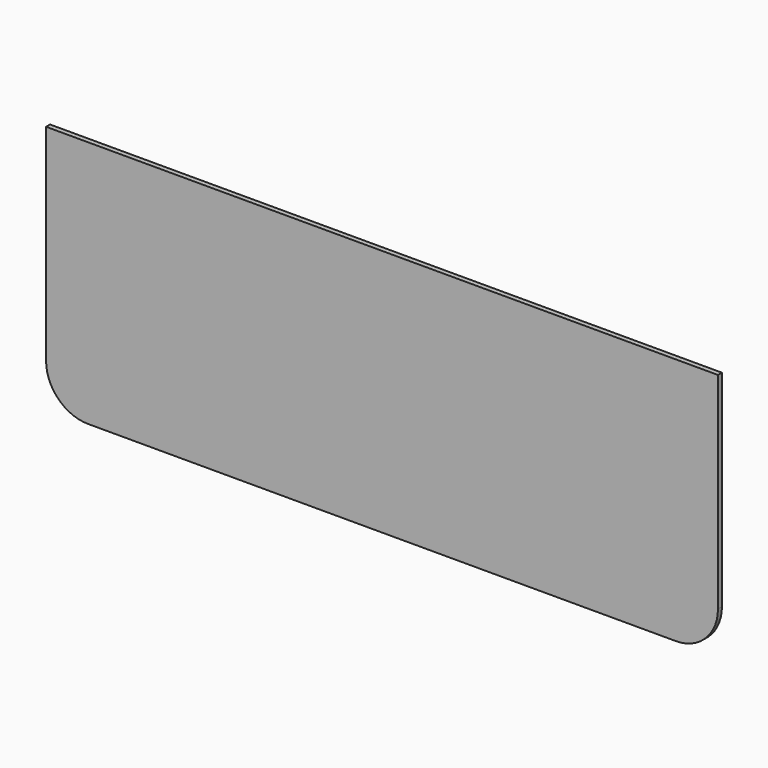
from build123d import *

# Parameters (mm, degrees)
F1_DEPTH = 3


with BuildPart() as f1:
    # F0 (on Front) → F1 (new body)
    with BuildSketch(Plane.XZ):
        with BuildLine():
            Line((181.971664, -31.123171), (181.971664, 93.476829))
            Line((181.971664, 93.476829), (-224.428336, 93.476829))
            Line((-224.428336, 93.476829), (-224.428336, -31.123171))
            ThreePointArc((-224.428336, -31.123171), (-216.988849, -49.083683), (-199.028336, -56.523171))
            Line((-199.028336, -56.523171), (156.571664, -56.523171))
            ThreePointArc((156.571664, -56.523171), (174.532176, -49.083683), (181.971664, -31.123171))
        make_face()
    extrude(amount=F1_DEPTH)


solid = f1.part
